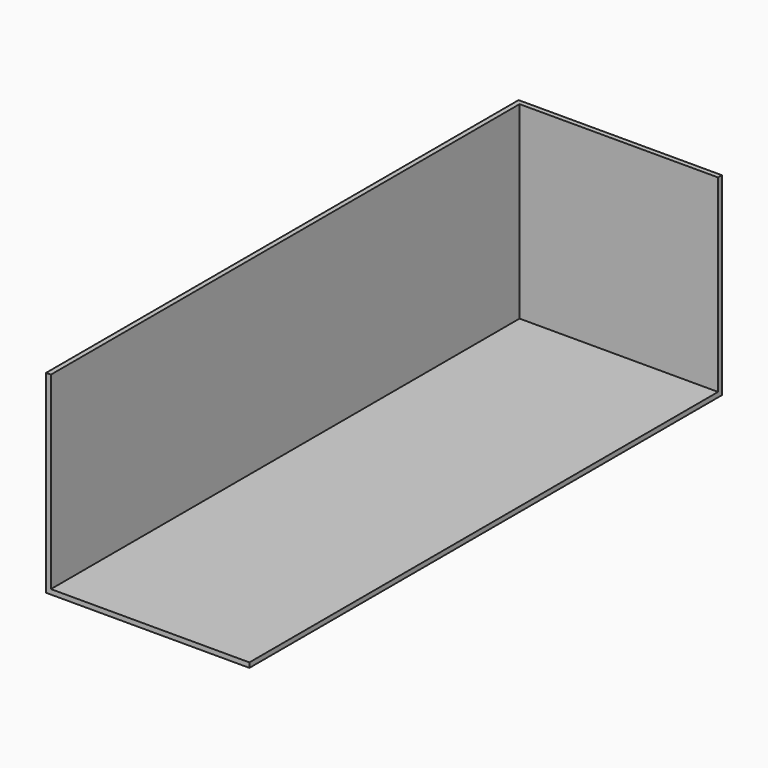
from build123d import *

# Parameters (mm, degrees)
F0_W     = 105
F0_H     = 305
F1_DEPTH = 100
F2_T     = -2.5


with BuildPart() as f1:
    # F0 (on Top) → F1 (new body)
    with BuildSketch(Plane.XY):
        Rectangle(F0_W, F0_H)
    extrude(amount=F1_DEPTH)

    # F2
    f2_openings = [f1.faces().sort_by_distance(p)[0] for p in [
        (0, 0, 100),
        (52.5, 0, 50),
        (0, -152.5, 50),
    ]]
    offset(amount=F2_T, openings=f2_openings)


solid = f1.part
